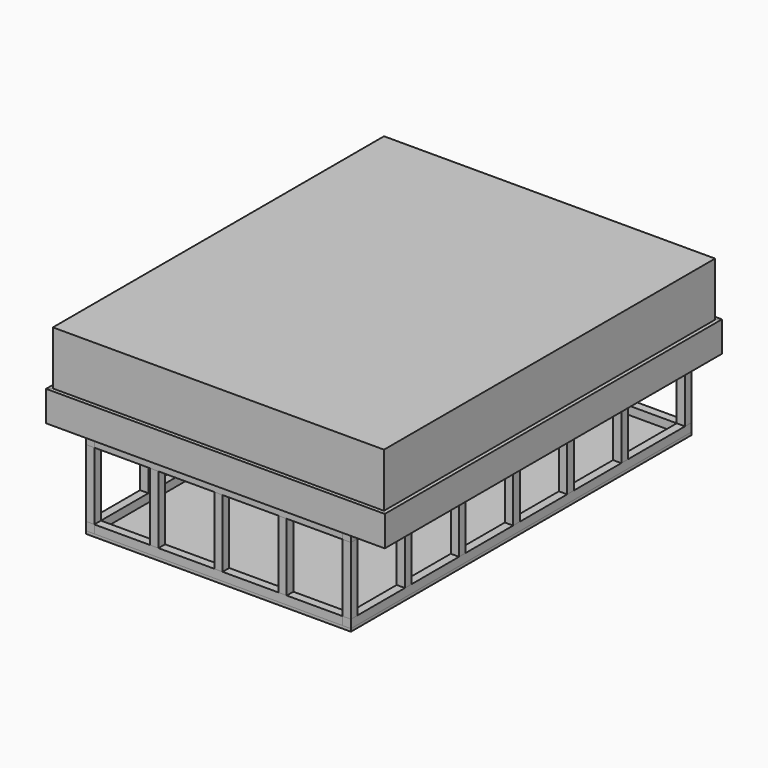
from build123d import *

# Parameters (mm, degrees)
F1_START  = 508
F0_W      = 1524
F0_H      = 1905
F1_DEPTH  = 279.4
F2_W      = 88.9
F2_H      = 19.05
F3_DEPTH  = 1905
F4_W      = 38.1
F4_H      = 88.9
F5_DEPTH  = 1905
F6_W      = 38.1
F6_H      = 88.9
F7_DEPTH  = 1447.8
F10_DEPTH = 139.7
F11_W     = 38.1
F11_H     = 1960.5625
F13_DEPTH = 38.1
F12_W     = 1142.9746
F12_H     = 38.1
F14_W     = 1219.1746
F14_H     = 1960.5625
F15_DEPTH = 12.7
F16_W     = 38.1
F16_H     = 1960.5625
F18_DEPTH = 38.1
F17_W     = 1142.9746
F17_H     = 38.1
F19_W     = 38.1
F19_H     = 38.1
F20_DEPTH = 311.15


with BuildPart() as f1:
    # F0 (on Top) → F1 (new body)
    with BuildSketch(Plane.XY.offset(F1_START)):
        with Locations((762, -952.5)):
            Rectangle(F0_W, F0_H)
    extrude(amount=F1_DEPTH)


with BuildPart() as f3:
    # F2 (on face) → F3 (new body, through all)
    with BuildSketch(Plane.XZ.offset(1905)):
        with Locations((44.45, 498.475)):
            Rectangle(F2_W, F2_H)
    extrude(amount=-F3_DEPTH)


with BuildPart() as f3b:
    # F2 (on face) → F3, piece 2 (new body, through all)
    with BuildSketch(Plane.XZ.offset(1905)):
        with Locations((203.2, 498.475)):
            Rectangle(F2_W, F2_H)
    extrude(amount=-F3_DEPTH)


with BuildPart() as f3c:
    # F2 (on face) → F3, piece 3 (new body, through all)
    with BuildSketch(Plane.XZ.offset(1905)):
        with Locations((361.95, 498.475)):
            Rectangle(F2_W, F2_H)
    extrude(amount=-F3_DEPTH)


with BuildPart() as f3d:
    # F2 (on face) → F3, piece 4 (new body, through all)
    with BuildSketch(Plane.XZ.offset(1905)):
        with Locations((520.7, 498.475)):
            Rectangle(F2_W, F2_H)
    extrude(amount=-F3_DEPTH)


with BuildPart() as f3e:
    # F2 (on face) → F3, piece 5 (new body, through all)
    with BuildSketch(Plane.XZ.offset(1905)):
        with Locations((679.45, 498.475)):
            Rectangle(F2_W, F2_H)
    extrude(amount=-F3_DEPTH)


with BuildPart() as f3f:
    # F2 (on face) → F3, piece 6 (new body, through all)
    with BuildSketch(Plane.XZ.offset(1905)):
        with Locations((838.2, 498.475)):
            Rectangle(F2_W, F2_H)
    extrude(amount=-F3_DEPTH)


with BuildPart() as f3g:
    # F2 (on face) → F3, piece 7 (new body, through all)
    with BuildSketch(Plane.XZ.offset(1905)):
        with Locations((996.95, 498.475)):
            Rectangle(F2_W, F2_H)
    extrude(amount=-F3_DEPTH)


with BuildPart() as f3h:
    # F2 (on face) → F3, piece 8 (new body, through all)
    with BuildSketch(Plane.XZ.offset(1905)):
        with Locations((1155.7, 498.475)):
            Rectangle(F2_W, F2_H)
    extrude(amount=-F3_DEPTH)


with BuildPart() as f3i:
    # F2 (on face) → F3, piece 9 (new body, through all)
    with BuildSketch(Plane.XZ.offset(1905)):
        with Locations((1314.45, 498.475)):
            Rectangle(F2_W, F2_H)
    extrude(amount=-F3_DEPTH)


with BuildPart() as f3j:
    # F2 (on face) → F3, piece 10 (new body, through all)
    with BuildSketch(Plane.XZ.offset(1905)):
        with Locations((1473.2, 498.475)):
            Rectangle(F2_W, F2_H)
    extrude(amount=-F3_DEPTH)


with BuildPart() as f5:
    # F4 (on face) → F5 (new body, through all)
    with BuildSketch(Plane(origin=(0, 0, 0), x_dir=(-1, 0, 0), z_dir=(0, 1, 0))):
        with Locations((-1504.95, 444.5)):
            Rectangle(F4_W, F4_H)
    extrude(amount=-F5_DEPTH)


with BuildPart() as f5b:
    # F4 (on face) → F5, piece 2 (new body, through all)
    with BuildSketch(Plane(origin=(0, 0, 0), x_dir=(-1, 0, 0), z_dir=(0, 1, 0))):
        with Locations((-19.05, 444.5)):
            Rectangle(F4_W, F4_H)
    extrude(amount=-F5_DEPTH)


with BuildPart() as f7:
    # F6 (on face) → F7 (new body, through all)
    with BuildSketch(Plane.YZ.offset(38.1)):
        with Locations((-19.05, 444.5)):
            Rectangle(F6_W, F6_H)
    extrude(amount=F7_DEPTH)


with BuildPart() as f7b:
    # F6 (on face) → F7, piece 2 (new body, through all)
    with BuildSketch(Plane.YZ.offset(38.1)):
        with Locations((-330.2, 444.5)):
            Rectangle(F6_W, F6_H)
    extrude(amount=F7_DEPTH)


with BuildPart() as f7c:
    # F6 (on face) → F7, piece 3 (new body, through all)
    with BuildSketch(Plane.YZ.offset(38.1)):
        with Locations((-641.35, 444.5)):
            Rectangle(F6_W, F6_H)
    extrude(amount=F7_DEPTH)


with BuildPart() as f7d:
    # F6 (on face) → F7, piece 4 (new body, through all)
    with BuildSketch(Plane.YZ.offset(38.1)):
        with Locations((-952.5, 444.5)):
            Rectangle(F6_W, F6_H)
    extrude(amount=F7_DEPTH)


with BuildPart() as f7e:
    # F6 (on face) → F7, piece 5 (new body, through all)
    with BuildSketch(Plane.YZ.offset(38.1)):
        with Locations((-1263.65, 444.5)):
            Rectangle(F6_W, F6_H)
    extrude(amount=F7_DEPTH)


with BuildPart() as f7f:
    # F6 (on face) → F7, piece 6 (new body, through all)
    with BuildSketch(Plane.YZ.offset(38.1)):
        with Locations((-1574.8, 444.5)):
            Rectangle(F6_W, F6_H)
    extrude(amount=F7_DEPTH)


with BuildPart() as f7g:
    # F6 (on face) → F7, piece 7 (new body, through all)
    with BuildSketch(Plane.YZ.offset(38.1)):
        with Locations((-1885.95, 444.5)):
            Rectangle(F6_W, F6_H)
    extrude(amount=F7_DEPTH)


with BuildPart() as f10:
    # F8 (on face) → F10 (new body)
    with BuildSketch(Plane(origin=(0, 0, 400.05), x_dir=(1, 0, 0), z_dir=(0, 0, -1))):
        Polygon((1524, 0), (1541.4625, -17.4625), (1541.4625, 1922.4625), (1524, 1905), align=None)
    extrude(amount=-F10_DEPTH)


with BuildPart() as f10b:
    # F8 (on face) → F10, piece 2 (new body)
    with BuildSketch(Plane(origin=(0, 0, 400.05), x_dir=(1, 0, 0), z_dir=(0, 0, -1))):
        Polygon((-17.4625, 1922.4625), (-17.4625, -17.4625), (0, 0), (0, 1905), align=None)
    extrude(amount=-F10_DEPTH)


with BuildPart() as f10c:
    # F9 (on face) → F10, piece 3 (new body)
    with BuildSketch(Plane(origin=(0, 0, 400.05), x_dir=(1, 0, 0), z_dir=(0, 0, -1))):
        Polygon((1541.4625, -17.4625), (1524, 0), (0, 0), (-17.4625, -17.4625), align=None)
    extrude(amount=-F10_DEPTH)


with BuildPart() as f10d:
    # F9 (on face) → F10, piece 4 (new body)
    with BuildSketch(Plane(origin=(0, 0, 400.05), x_dir=(1, 0, 0), z_dir=(0, 0, -1))):
        Polygon((-17.4625, 1922.4625), (0, 1905), (1524, 1905), (1541.4625, 1922.4625), align=None)
    extrude(amount=-F10_DEPTH)


with BuildPart() as f13:
    # F11 (on face) → F13 (new body)
    with BuildSketch(Plane(origin=(0, 0, 400.05), x_dir=(1, 0, 0), z_dir=(0, 0, -1))):
        with Locations((171.4627, 924.71875)):
            Rectangle(F11_W, F11_H)
    extrude(amount=F13_DEPTH)


with BuildPart() as f13b:
    # F11 (on face) → F13, piece 2 (new body)
    with BuildSketch(Plane(origin=(0, 0, 400.05), x_dir=(1, 0, 0), z_dir=(0, 0, -1))):
        with Locations((1352.5373, 924.71875)):
            Rectangle(F11_W, F11_H)
    extrude(amount=F13_DEPTH)


with BuildPart() as f13c:
    # F12 (on face) → F13, piece 3 (new body)
    with BuildSketch(Plane(origin=(0, 0, 400.05), x_dir=(1, 0, 0), z_dir=(0, 0, -1))):
        with Locations((762, 1885.95)):
            Rectangle(F12_W, F12_H)
    extrude(amount=F13_DEPTH)


with BuildPart() as f13d:
    # F12 (on face) → F13, piece 4 (new body)
    with BuildSketch(Plane(origin=(0, 0, 400.05), x_dir=(1, 0, 0), z_dir=(0, 0, -1))):
        with Locations((762, -36.5125)):
            Rectangle(F12_W, F12_H)
    extrude(amount=F13_DEPTH)


with BuildPart() as f15:
    # F14 (on Top) → F15 (new body)
    with BuildSketch(Plane.XY):
        with Locations((762, -924.71875)):
            Rectangle(F14_W, F14_H)
    extrude(amount=F15_DEPTH)


with BuildPart() as f18:
    # F16 (on face) → F18 (new body)
    with BuildSketch(Plane.XY.offset(12.7)):
        with Locations((1352.5373, -924.71875)):
            Rectangle(F16_W, F16_H)
    extrude(amount=F18_DEPTH)


with BuildPart() as f18b:
    # F16 (on face) → F18, piece 2 (new body)
    with BuildSketch(Plane.XY.offset(12.7)):
        with Locations((171.4627, -924.71875)):
            Rectangle(F16_W, F16_H)
    extrude(amount=F18_DEPTH)


with BuildPart() as f18c:
    # F17 (on face) → F18, piece 3 (new body)
    with BuildSketch(Plane.XY.offset(12.7)):
        with Locations((762, -1885.95)):
            Rectangle(F17_W, F17_H)
    extrude(amount=F18_DEPTH)


with BuildPart() as f18d:
    # F17 (on face) → F18, piece 4 (new body)
    with BuildSketch(Plane.XY.offset(12.7)):
        with Locations((762, 36.5125)):
            Rectangle(F17_W, F17_H)
    extrude(amount=F18_DEPTH)


with BuildPart() as f20:
    # F19 (on face) → F20 (new body, through all)
    with BuildSketch(Plane(origin=(0, 0, 361.95), x_dir=(1, 0, 0), z_dir=(0, 0, -1))):
        with Locations((171.4627, 1885.95)):
            Rectangle(F19_W, F19_H)
    extrude(amount=F20_DEPTH)


with BuildPart() as f20b:
    # F19 (on face) → F20, piece 2 (new body, through all)
    with BuildSketch(Plane(origin=(0, 0, 361.95), x_dir=(1, 0, 0), z_dir=(0, 0, -1))):
        with Locations((171.4627, 1574.8)):
            Rectangle(F19_W, F19_H)
    extrude(amount=F20_DEPTH)


with BuildPart() as f20c:
    # F19 (on face) → F20, piece 3 (new body, through all)
    with BuildSketch(Plane(origin=(0, 0, 361.95), x_dir=(1, 0, 0), z_dir=(0, 0, -1))):
        with Locations((171.4627, 1263.65)):
            Rectangle(F19_W, F19_H)
    extrude(amount=F20_DEPTH)


with BuildPart() as f20d:
    # F19 (on face) → F20, piece 4 (new body, through all)
    with BuildSketch(Plane(origin=(0, 0, 361.95), x_dir=(1, 0, 0), z_dir=(0, 0, -1))):
        with Locations((171.4627, 952.5)):
            Rectangle(F19_W, F19_H)
    extrude(amount=F20_DEPTH)


with BuildPart() as f20e:
    # F19 (on face) → F20, piece 5 (new body, through all)
    with BuildSketch(Plane(origin=(0, 0, 361.95), x_dir=(1, 0, 0), z_dir=(0, 0, -1))):
        with Locations((171.4627, 641.35)):
            Rectangle(F19_W, F19_H)
    extrude(amount=F20_DEPTH)


with BuildPart() as f20f:
    # F19 (on face) → F20, piece 6 (new body, through all)
    with BuildSketch(Plane(origin=(0, 0, 361.95), x_dir=(1, 0, 0), z_dir=(0, 0, -1))):
        with Locations((171.4627, 330.2)):
            Rectangle(F19_W, F19_H)
    extrude(amount=F20_DEPTH)


with BuildPart() as f20g:
    # F19 (on face) → F20, piece 7 (new body, through all)
    with BuildSketch(Plane(origin=(0, 0, 361.95), x_dir=(1, 0, 0), z_dir=(0, 0, -1))):
        with Locations((1352.5627, 1574.8)):
            Rectangle(F19_W, F19_H)
    extrude(amount=F20_DEPTH)


with BuildPart() as f20h:
    # F19 (on face) → F20, piece 8 (new body, through all)
    with BuildSketch(Plane(origin=(0, 0, 361.95), x_dir=(1, 0, 0), z_dir=(0, 0, -1))):
        with Locations((1352.5627, 1263.65)):
            Rectangle(F19_W, F19_H)
    extrude(amount=F20_DEPTH)


with BuildPart() as f20i:
    # F19 (on face) → F20, piece 9 (new body, through all)
    with BuildSketch(Plane(origin=(0, 0, 361.95), x_dir=(1, 0, 0), z_dir=(0, 0, -1))):
        with Locations((1352.5627, 952.5)):
            Rectangle(F19_W, F19_H)
    extrude(amount=F20_DEPTH)


with BuildPart() as f20j:
    # F19 (on face) → F20, piece 10 (new body, through all)
    with BuildSketch(Plane(origin=(0, 0, 361.95), x_dir=(1, 0, 0), z_dir=(0, 0, -1))):
        with Locations((1352.5627, 641.35)):
            Rectangle(F19_W, F19_H)
    extrude(amount=F20_DEPTH)


with BuildPart() as f20k:
    # F19 (on face) → F20, piece 11 (new body, through all)
    with BuildSketch(Plane(origin=(0, 0, 361.95), x_dir=(1, 0, 0), z_dir=(0, 0, -1))):
        with Locations((1352.5627, 330.2)):
            Rectangle(F19_W, F19_H)
    extrude(amount=F20_DEPTH)


with BuildPart() as f20l:
    # F19 (on face) → F20, piece 12 (new body, through all)
    with BuildSketch(Plane(origin=(0, 0, 361.95), x_dir=(1, 0, 0), z_dir=(0, 0, -1))):
        with Locations((466.7377, 1885.95)):
            Rectangle(F19_W, F19_H)
    extrude(amount=F20_DEPTH)


with BuildPart() as f20m:
    # F19 (on face) → F20, piece 13 (new body, through all)
    with BuildSketch(Plane(origin=(0, 0, 361.95), x_dir=(1, 0, 0), z_dir=(0, 0, -1))):
        with Locations((762.0127, 1885.95)):
            Rectangle(F19_W, F19_H)
    extrude(amount=F20_DEPTH)


with BuildPart() as f20n:
    # F19 (on face) → F20, piece 14 (new body, through all)
    with BuildSketch(Plane(origin=(0, 0, 361.95), x_dir=(1, 0, 0), z_dir=(0, 0, -1))):
        with Locations((1057.2877, 1885.95)):
            Rectangle(F19_W, F19_H)
    extrude(amount=F20_DEPTH)


with BuildPart() as f20o:
    # F19 (on face) → F20, piece 15 (new body, through all)
    with BuildSketch(Plane(origin=(0, 0, 361.95), x_dir=(1, 0, 0), z_dir=(0, 0, -1))):
        with Locations((1352.5627, 1885.95)):
            Rectangle(F19_W, F19_H)
    extrude(amount=F20_DEPTH)


with BuildPart() as f20p:
    # F19 (on face) → F20, piece 16 (new body, through all)
    with BuildSketch(Plane(origin=(0, 0, 361.95), x_dir=(1, 0, 0), z_dir=(0, 0, -1))):
        with Locations((1352.5373, -36.5125)):
            Rectangle(F19_W, F19_H)
    extrude(amount=F20_DEPTH)


with BuildPart() as f20q:
    # F19 (on face) → F20, piece 17 (new body, through all)
    with BuildSketch(Plane(origin=(0, 0, 361.95), x_dir=(1, 0, 0), z_dir=(0, 0, -1))):
        with Locations((171.4627, -36.5125)):
            Rectangle(F19_W, F19_H)
    extrude(amount=F20_DEPTH)


with BuildPart() as f20r:
    # F19 (on face) → F20, piece 18 (new body, through all)
    with BuildSketch(Plane(origin=(0, 0, 361.95), x_dir=(1, 0, 0), z_dir=(0, 0, -1))):
        with Locations((762.0127, -36.5125)):
            Rectangle(F19_W, F19_H)
    extrude(amount=F20_DEPTH)


with BuildPart() as f20s:
    # F19 (on face) → F20, piece 19 (new body, through all)
    with BuildSketch(Plane(origin=(0, 0, 361.95), x_dir=(1, 0, 0), z_dir=(0, 0, -1))):
        with Locations((466.7377, -36.5125)):
            Rectangle(F19_W, F19_H)
    extrude(amount=F20_DEPTH)


with BuildPart() as f20t:
    # F19 (on face) → F20, piece 20 (new body, through all)
    with BuildSketch(Plane(origin=(0, 0, 361.95), x_dir=(1, 0, 0), z_dir=(0, 0, -1))):
        with Locations((1060.4627, -36.5125)):
            Rectangle(F19_W, F19_H)
    extrude(amount=F20_DEPTH)


solid = Compound([f1.part, f3.part, f3b.part, f3c.part, f3d.part, f3e.part, f3f.part, f3g.part, f3h.part, f3i.part, f3j.part, f5.part, f5b.part, f7.part, f7b.part, f7c.part, f7d.part, f7e.part, f7f.part, f7g.part, f10.part, f10b.part, f10c.part, f10d.part, f13.part, f13b.part, f13c.part, f13d.part, f15.part, f18.part, f18b.part, f18c.part, f18d.part, f20.part, f20b.part, f20c.part, f20d.part, f20e.part, f20f.part, f20g.part, f20h.part, f20i.part, f20j.part, f20k.part, f20l.part, f20m.part, f20n.part, f20o.part, f20p.part, f20q.part, f20r.part, f20s.part, f20t.part])
